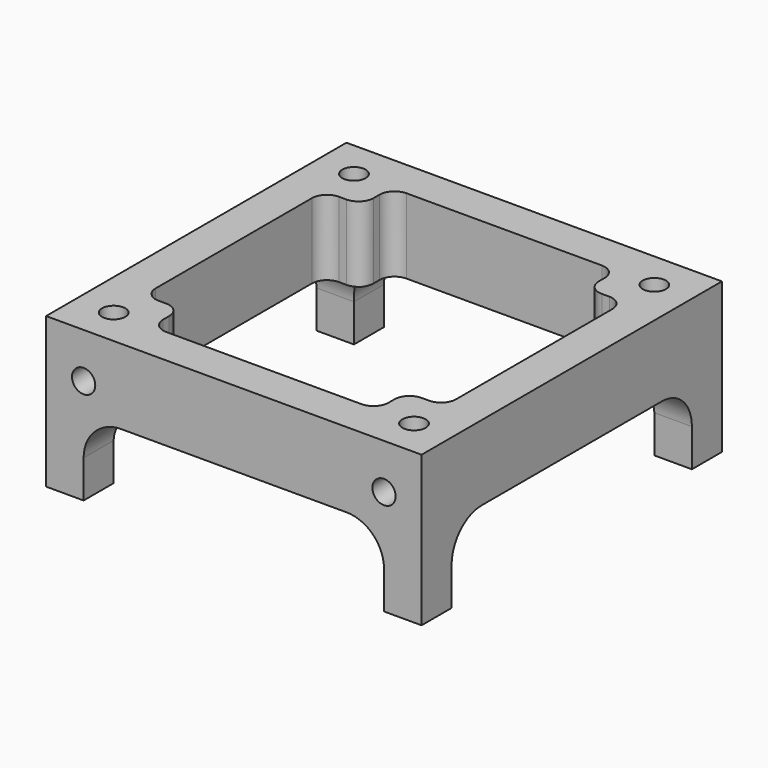
from build123d import *

# Parameters (mm, degrees)
SKETCH064_W     = 50
SKETCH064_H     = 50
PAD011_DEPTH    = 20
POCKET054_DEPTH = 20.001
POCKET055_DEPTH = 50.001
POCKET056_DEPTH = 50.001
SKETCH068_R     = 1.55
POCKET057_DEPTH = 5
SKETCH074_R     = 1.55
POCKET062_DEPTH = 3
SKETCH099_R     = 1.55
POCKET083_DEPTH = 3


with BuildPart() as part:
    # Sketch064 → Pad011 (new body)
    with BuildSketch(Plane.XY):
        Rectangle(SKETCH064_W, SKETCH064_H)
    extrude(amount=PAD011_DEPTH)

    # Sketch065 (on Face6 of Pad011) → Pocket054 (cut, through all)
    with BuildSketch(Plane.XY.offset(20)):
        with BuildLine():
            Line((-18, 15), (-17, 15))
            ThreePointArc((-17, 15), (-15.585786, 15.585786), (-15, 17))
            Line((-15, 17), (-15, 18))
            ThreePointArc((-13, 20), (-14.414214, 19.414214), (-15, 18))
            Line((-13, 20), (13, 20))
            ThreePointArc((15, 18), (14.414214, 19.414214), (13, 20))
            Line((15, 18), (15, 17))
            ThreePointArc((15, 17), (15.585786, 15.585786), (17, 15))
            Line((17, 15), (18, 15))
            ThreePointArc((20, 13), (19.414214, 14.414214), (18, 15))
            Line((20, 13), (20, -13))
            ThreePointArc((18, -15), (19.414214, -14.414214), (20, -13))
            Line((18, -15), (17, -15))
            ThreePointArc((17, -15), (15.585786, -15.585786), (15, -17))
            Line((15, -17), (15, -18))
            ThreePointArc((13, -20), (14.414214, -19.414214), (15, -18))
            Line((13, -20), (-13, -20))
            ThreePointArc((-15, -18), (-14.414214, -19.414214), (-13, -20))
            Line((-15, -18), (-15, -17))
            ThreePointArc((-15, -17), (-15.585786, -15.585786), (-17, -15))
            Line((-17, -15), (-18, -15))
            ThreePointArc((-20, -13), (-19.414214, -14.414214), (-18, -15))
            Line((-20, -13), (-20, 13))
            ThreePointArc((-18, 15), (-19.414214, 14.414214), (-20, 13))
        make_face()
    extrude(amount=-POCKET054_DEPTH, mode=Mode.SUBTRACT)

    # Sketch066 (on Face3 of Pocket054) → Pocket055 (cut, through all)
    with BuildSketch(Plane.YZ.offset(25)):
        with BuildLine():
            Line((-15, 10), (15, 10))
            ThreePointArc((20, 5), (18.535534, 8.535534), (15, 10))
            Line((20, 5), (20, 0))
            Line((20, 0), (-20, 0))
            Line((-20, 0), (-20, 5))
            ThreePointArc((-15, 10), (-18.535534, 8.535534), (-20, 5))
        make_face()
    extrude(amount=-POCKET055_DEPTH, mode=Mode.SUBTRACT)

    # Sketch067 (on Face6 of Pocket054) → Pocket056 (cut, through all)
    with BuildSketch(Plane.XZ.offset(25)):
        with BuildLine():
            Line((-15, 10), (15, 10))
            ThreePointArc((20, 5), (18.535534, 8.535534), (15, 10))
            Line((20, 5), (20, 0))
            Line((20, 0), (-20, 0))
            Line((-20, 0), (-20, 5))
            ThreePointArc((-15, 10), (-18.535534, 8.535534), (-20, 5))
        make_face()
    extrude(amount=-POCKET056_DEPTH, mode=Mode.SUBTRACT)

    # Sketch068 → Pocket057 (cut)
    with BuildSketch(Plane.XY.offset(20)):
        with Locations((-20, 20)):
            Circle(SKETCH068_R)
        with Locations((20, 20)):
            Circle(SKETCH068_R)
        with Locations((20, -20)):
            Circle(SKETCH068_R)
        with Locations((-20, -20)):
            Circle(SKETCH068_R)
    extrude(amount=-POCKET057_DEPTH, mode=Mode.SUBTRACT)

    # Sketch074 (on Face27 of Pocket057) → Pocket062 (cut)
    with BuildSketch(Plane.XZ.offset(25)):
        with Locations((-20, 14)):
            Circle(SKETCH074_R)
        with Locations((20, 14)):
            Circle(SKETCH074_R)
    extrude(amount=-POCKET062_DEPTH, mode=Mode.SUBTRACT)

    # Sketch099 (on Face11 of Pocket062) → Pocket083 (cut)
    with BuildSketch(Plane(origin=(-25, 0, 0), x_dir=(0, -1, 0), z_dir=(-1, 0, 0))):
        with Locations((-20, 14)):
            Circle(SKETCH099_R)
        with Locations((20, 14)):
            Circle(SKETCH099_R)
    extrude(amount=-POCKET083_DEPTH, mode=Mode.SUBTRACT)


with BuildPart() as part_1:
    # Body012 placement: moved
    add(part.part.moved(Location((25, 25, 0))))


solid = part_1.part
